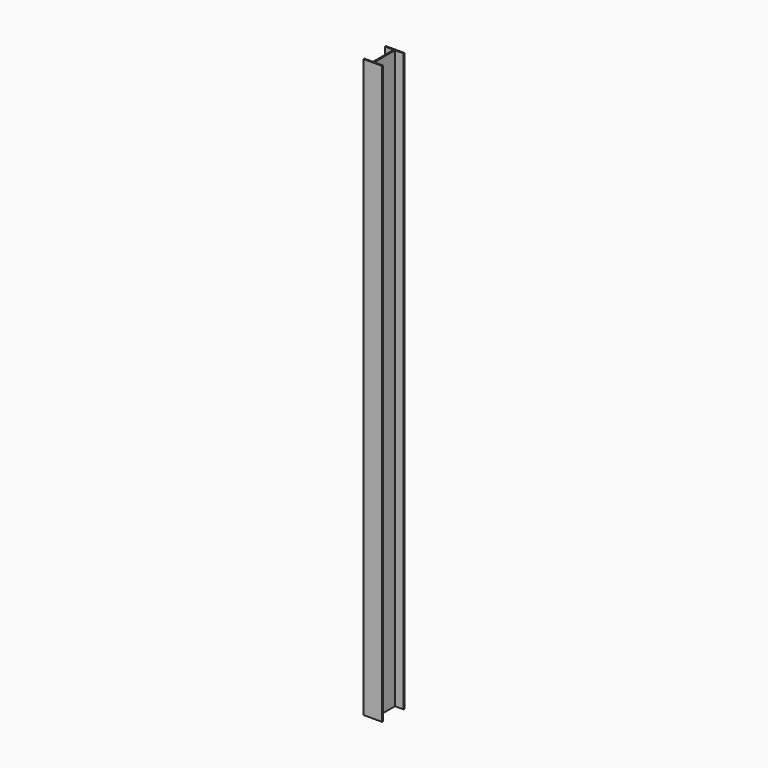
from build123d import *

# Parameters (mm, degrees)
F0_W     = 101.6
F0_H     = 153.162
F1_DEPTH = 1574.8
F2_W     = 47.244
F2_H     = 141.478
F3_DEPTH = 3149.601


with BuildPart() as f1:
    # F0 (on Top) → F1 (new body, symmetric)
    with BuildSketch(Plane.XY):
        Rectangle(F0_W, F0_H)
    extrude(amount=F1_DEPTH, both=True)

    # F2 (on face) → F3 (cut, through all)
    with BuildSketch(Plane.XY.offset(1574.8)):
        with Locations((27.178, 0)):
            Rectangle(F2_W, F2_H)
        with Locations((-27.178, 0)):
            Rectangle(F2_W, F2_H)
    extrude(amount=-F3_DEPTH, mode=Mode.SUBTRACT)


solid = f1.part
